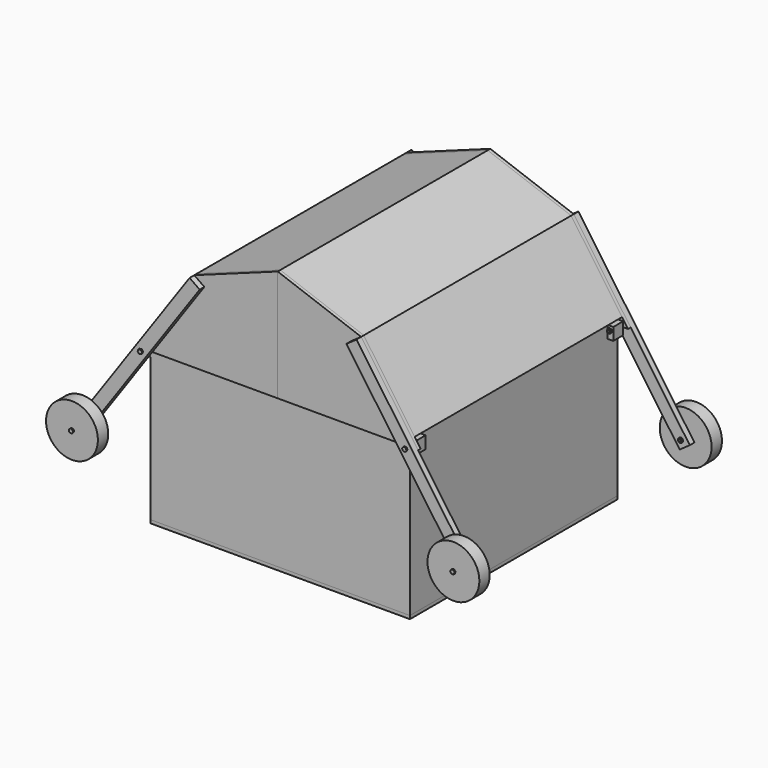
from build123d import *

# Parameters (mm, degrees)
F0_W      = 2000
F0_H      = 2000
F1_DEPTH  = 25
F2_W      = 2000
F2_H      = 2000
F2_W_2    = 1956
F2_H_2    = 1956
F3_DEPTH  = 1200
F4_R      = 100
F5_DEPTH  = 1000
F7_DEPTH  = 1000
F9_DEPTH  = 25
F12_DEPTH = 45
F13_R     = 200
F13_R_2   = 10
F14_DEPTH = 100
F15_W     = 95
F15_H     = 95
F16_DEPTH = 45
F17_R     = 10
F18_DEPTH = 2095.001
F19_R     = 10
F20_DEPTH = 183
F22_DEPTH = 10
F23_R     = 10
F24_DEPTH = 10
F25_R     = 10
F26_DEPTH = 160
F28_DEPTH = 10
F29_R     = 10
F30_DEPTH = 10


with BuildPart() as f1:
    # F0 (on Top) → F1 (new body)
    with BuildSketch(Plane.XY):
        Rectangle(F0_W, F0_H)
    extrude(amount=-F1_DEPTH)


with BuildPart() as f3:
    # F2 (on face) → F3 (new body)
    with BuildSketch(Plane.XY):
        Rectangle(F2_W, F2_H)
        Rectangle(F2_W_2, F2_H_2, mode=Mode.SUBTRACT)
    extrude(amount=F3_DEPTH)


with BuildPart() as f5:
    # F4 (on face) → F5 (new body)
    with BuildSketch(Plane.XY):
        Circle(F4_R)
    extrude(amount=F5_DEPTH)


with BuildPart() as f7:
    # F6 (on Front) → F7 (new body, symmetric)
    with BuildSketch(Plane.XZ):
        Polygon((0, 1973.5350140412), (0, 2021.4230138026), (-643.8586826976, 1787.0776182268), (-1036.861841993, 1225.8109396358), (-1000, 1200), (-615.1349987116, 1749.6441844548), align=None)
    extrude(amount=F7_DEPTH, both=True)


with BuildPart() as f9:
    # F8 (on face) → F9 (new body)
    with BuildSketch(Plane.XZ.offset(1000)):
        Polygon((0, 2021.4230138026), (-643.8586826976, 1787.0776182268), (-1036.861841993, 1225.8109396358), (-1082.9431580227, 1160), (0, 1160), align=None)
    extrude(amount=F9_DEPTH)


with BuildPart() as f10_1:
    # F10: instance of F9
    add(f9.part.mirror(Plane.XZ))


with BuildPart() as f12:
    # F11 (on face) → F12 (new body)
    with BuildSketch(Plane.XZ.offset(1025)):
        Polygon((-566.0392384902, 1732.5878567735), (-643.8586826976, 1787.0776182268), (-1539.0545713554, 508.6053941965), (-1461.235127148, 454.1156327432), align=None)
    extrude(amount=F12_DEPTH)


with BuildPart() as f14:
    # F13 (on face) → F14 (new body)
    with BuildSketch(Plane.XZ.offset(1070)):
        with Locations((-1471.4660274341, 522.3181156843)):
            Circle(F13_R)
        with Locations((-1471.4660274341, 522.3181156843)):
            Circle(F13_R_2, mode=Mode.SUBTRACT)
    extrude(amount=F14_DEPTH)


with BuildPart() as f16:
    # F15 (on face) → F16 (new body)
    with BuildSketch(Plane(origin=(-1000, 0, 0), x_dir=(0, -1, 0), z_dir=(-1, 0, 0))):
        with Locations((952.5, 1152.5)):
            Rectangle(F15_W, F15_H)
    extrude(amount=F16_DEPTH)


with BuildPart() as f18_tool:
    # F17 (on face) → F18 (new body, through all)
    with BuildSketch(Plane.XZ.offset(1070)):
        with Locations((-1020, 1167.0784228761)):
            Circle(F17_R)
    extrude(amount=-F18_DEPTH)


with BuildPart() as f9_1:
    add(f9.part)

    # F18: cut by f18_tool
    add(f18_tool.part, mode=Mode.SUBTRACT)


with BuildPart() as f10_1_1:
    add(f10_1.part)

    # F18: cut by f18_tool
    add(f18_tool.part, mode=Mode.SUBTRACT)


with BuildPart() as f12_1:
    add(f12.part)

    # F18: cut by f18_tool
    add(f18_tool.part, mode=Mode.SUBTRACT)


with BuildPart() as f16_1:
    add(f16.part)

    # F18: cut by f18_tool
    add(f18_tool.part, mode=Mode.SUBTRACT)


with BuildPart() as f20:
    # F19 (on face) → F20 (new body)
    with BuildSketch(Plane.XZ.offset(1070)):
        with Locations((-1020, 1167.0784228761)):
            Circle(F19_R)
    extrude(amount=-F20_DEPTH)

    # F21 (on face) → F22 (join)
    with BuildSketch(Plane.XZ.offset(1070)):
        Polygon((-1009.6220572913, 1153.2112564339), (-1002.8017102282, 1169.1324016797), (-1013.1796529369, 1182.9995681219), (-1030.3779427087, 1180.9455893183), (-1037.1982897718, 1165.0244440725), (-1026.8203470631, 1151.1572776303), align=None)
    extrude(amount=F22_DEPTH)


with BuildPart() as f24:
    # F23 (on face) → F24 (new body)
    with BuildSketch(Plane(origin=(0, -905, 0), x_dir=(-1, 0, 0), z_dir=(0, 1, 0))):
        Polygon((1026.6712406259, 1151.0942260395), (1037.1783408325, 1164.8637883145), (1030.5071002067, 1180.8479851512), (1013.3287593741, 1183.0626197127), (1002.8216591675, 1169.2930574377), (1009.4928997933, 1153.308860601), align=None)
        with Locations((1020, 1167.0784228761)):
            Circle(F23_R, mode=Mode.SUBTRACT)
    extrude(amount=F24_DEPTH)


with BuildPart() as f26:
    # F25 (on face) → F26 (new body)
    with BuildSketch(Plane.XZ.offset(1170)):
        with Locations((-1471.4660274341, 522.3181156843)):
            Circle(F25_R)
    extrude(amount=-F26_DEPTH)

    # F27 (on face) → F28 (join)
    with BuildSketch(Plane.XZ.offset(1170)):
        Polygon((-1466.7027436125, 505.6654544184), (-1454.6627578265, 518.1169098463), (-1459.4260416481, 534.7695711121), (-1476.2293112557, 538.9707769501), (-1488.2692970418, 526.5193215222), (-1483.5060132202, 509.8666602564), align=None)
    extrude(amount=F28_DEPTH)


with BuildPart() as f30:
    # F29 (on face) → F30 (new body)
    with BuildSketch(Plane(origin=(0, -1025, 0), x_dir=(-1, 0, 0), z_dir=(0, 1, 0))):
        Polygon((1483.6742045554, 510.0315209007), (1488.2106192034, 526.7474098134), (1476.0024420821, 539.034004597), (1459.2578503129, 534.6047104679), (1454.7214356649, 517.8888215552), (1466.9296127861, 505.6022267716), align=None)
        with Locations((1471.4660274341, 522.3181156843)):
            Circle(F29_R, mode=Mode.SUBTRACT)
    extrude(amount=F30_DEPTH)


with BuildPart() as f31_1:
    # F31: instance of F12
    add(f12_1.part.mirror(Plane.XZ))


with BuildPart() as f31_2:
    # F31: instance of F14
    add(f14.part.mirror(Plane.XZ))


with BuildPart() as f31_3:
    # F31: instance of F26
    add(f26.part.mirror(Plane.XZ))


with BuildPart() as f31_4:
    # F31: instance of F20
    add(f20.part.mirror(Plane.XZ))


with BuildPart() as f31_5:
    # F31: instance of F30
    add(f30.part.mirror(Plane.XZ))


with BuildPart() as f31_6:
    # F31: instance of F24
    add(f24.part.mirror(Plane.XZ))


with BuildPart() as f31_7:
    # F31: instance of F16
    add(f16_1.part.mirror(Plane.XZ))


with BuildPart() as f32_1:
    # F32: instance of F7
    add(f7.part.mirror(Plane.YZ))


with BuildPart() as f32_2:
    # F32: instance of F9
    add(f9_1.part.mirror(Plane.YZ))


with BuildPart() as f32_3:
    # F32: instance of F14
    add(f14.part.mirror(Plane.YZ))


with BuildPart() as f32_4:
    # F32: instance of F12
    add(f12_1.part.mirror(Plane.YZ))


with BuildPart() as f32_5:
    # F32: instance of F31_5
    add(f31_5.part.mirror(Plane.YZ))


with BuildPart() as f32_6:
    # F32: instance of F31_3
    add(f31_3.part.mirror(Plane.YZ))


with BuildPart() as f32_7:
    # F32: instance of F20
    add(f20.part.mirror(Plane.YZ))


with BuildPart() as f32_8:
    # F32: instance of F31_1
    add(f31_1.part.mirror(Plane.YZ))


with BuildPart() as f32_9:
    # F32: instance of F31_2
    add(f31_2.part.mirror(Plane.YZ))


with BuildPart() as f32_10:
    # F32: instance of F26
    add(f26.part.mirror(Plane.YZ))


with BuildPart() as f32_11:
    # F32: instance of F10_1
    add(f10_1_1.part.mirror(Plane.YZ))


with BuildPart() as f32_12:
    # F32: instance of F16
    add(f16_1.part.mirror(Plane.YZ))


with BuildPart() as f32_13:
    # F32: instance of F31_6
    add(f31_6.part.mirror(Plane.YZ))


with BuildPart() as f32_14:
    # F32: instance of F31_4
    add(f31_4.part.mirror(Plane.YZ))


with BuildPart() as f32_15:
    # F32: instance of F30
    add(f30.part.mirror(Plane.YZ))


with BuildPart() as f32_16:
    # F32: instance of F31_7
    add(f31_7.part.mirror(Plane.YZ))


with BuildPart() as f32_17:
    # F32: instance of F24
    add(f24.part.mirror(Plane.YZ))


solid = Compound([f1.part, f3.part, f5.part, f7.part, f14.part, f9_1.part, f10_1_1.part, f12_1.part, f16_1.part, f20.part, f24.part, f26.part, f30.part, f31_1.part, f31_2.part, f31_3.part, f31_4.part, f31_5.part, f31_6.part, f31_7.part, f32_1.part, f32_2.part, f32_3.part, f32_4.part, f32_5.part, f32_6.part, f32_7.part, f32_8.part, f32_9.part, f32_10.part, f32_11.part, f32_12.part, f32_13.part, f32_14.part, f32_15.part, f32_16.part, f32_17.part])
